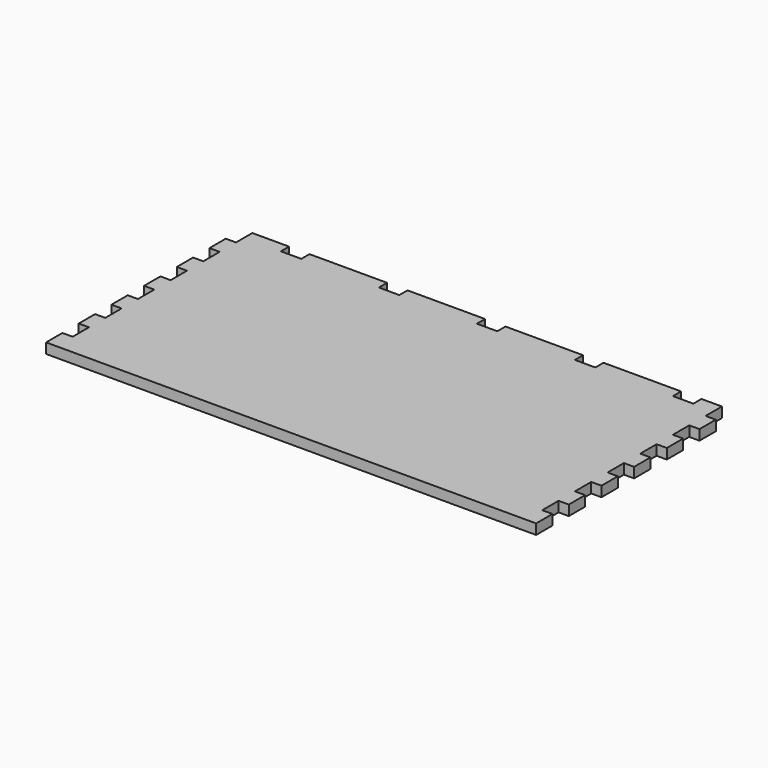
from build123d import *

# Parameters (mm, degrees)
F1_DEPTH = 12.7


with BuildPart() as f1:
    # F0 (on Top) → F1 (new body)
    with BuildSketch(Plane.XY):
        Polygon((-246.38, 152.4), (-292.1, 152.4), (-292.1, 127), (-304.8, 127), (-304.8, 101.6), (-292.1, 101.6), (-292.1, 76.2), (-304.8, 76.2), (-304.8, 50.8), (-292.1, 50.8), (-292.1, 25.4), (-304.8, 25.4), (-304.8, 0), (-292.1, 0), (-292.1, -25.4), (-304.8, -25.4), (-304.8, -50.8), (-292.1, -50.8), (-292.1, -76.2), (-304.8, -76.2), (-304.8, -101.6), (-292.1, -101.6), (-292.1, -127), (-304.8, -127), (-304.8, -152.4), (304.8, -152.4), (304.8, -127), (292.1, -127), (292.1, -101.6), (304.8, -101.6), (304.8, -76.2), (292.1, -76.2), (292.1, -50.8), (304.8, -50.8), (304.8, -25.4), (292.1, -25.4), (292.1, 0), (304.8, 0), (304.8, 25.4), (292.1, 25.4), (292.1, 50.8), (304.8, 50.8), (304.8, 76.2), (292.1, 76.2), (292.1, 101.6), (304.8, 101.6), (304.8, 127), (292.1, 127), (292.1, 152.4), (266.7, 152.4), (266.7, 139.7), (241.3, 139.7), (241.3, 152.4), (144.78, 152.4), (144.78, 139.7), (119.38, 139.7), (119.38, 152.4), (22.86, 152.4), (22.86, 139.7), (-2.54, 139.7), (-2.54, 152.4), (-99.06, 152.4), (-99.06, 139.7), (-124.46, 139.7), (-124.46, 152.4), (-220.98, 152.4), (-220.98, 139.7), (-246.38, 139.7), align=None)
    extrude(amount=F1_DEPTH)


solid = f1.part
